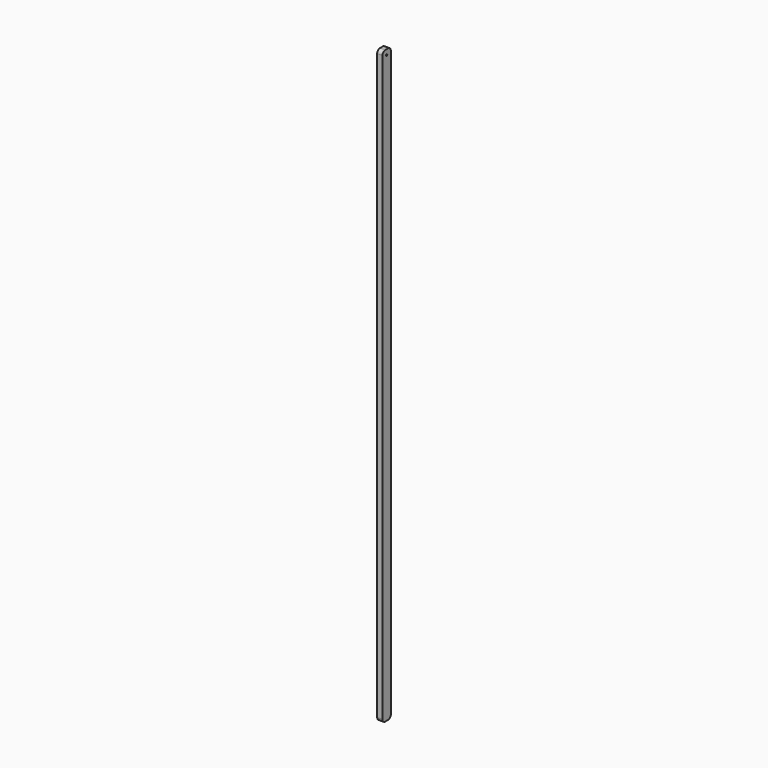
from build123d import *

# Parameters (mm, degrees)
F0_W     = 19.05
F0_H     = 38.1
F1_DEPTH = 2146.3
F2_R     = 3.175
F3_DEPTH = 19.051
F4_R     = 12.7


with BuildPart() as f1:
    # F0 (on Top) → F1 (new body)
    with BuildSketch(Plane.XY):
        with Locations((9.525, 19.05)):
            Rectangle(F0_W, F0_H)
    extrude(amount=-F1_DEPTH)

    # F2 (on face) → F3 (cut, through all)
    with BuildSketch(Plane.YZ.offset(19.05)):
        with Locations((19.05, -19.05)):
            Circle(F2_R)
    extrude(amount=-F3_DEPTH, mode=Mode.SUBTRACT)

    # F4
    f4_edges = [f1.edges().sort_by_distance(p)[0] for p in [
        (9.525, 0, 0),
        (9.525, 38.1, 0),
        (9.525, 0, -2146.3),
        (9.525, 38.1, -2146.3),
    ]]
    fillet(f4_edges, radius=F4_R)


solid = f1.part
